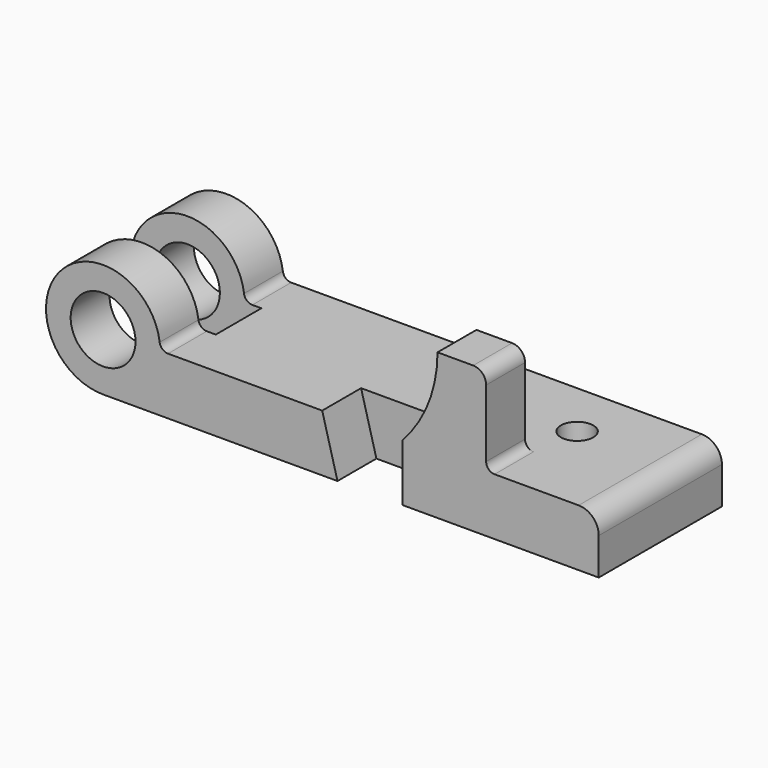
from build123d import *

# Parameters (mm, degrees)
F0_R     = 12.7
F1_DEPTH = 30.1625
F2_W     = 28.956
F2_H     = 22.3266
F2_R     = 6.35
F3_DEPTH = 44.705
F5_DEPTH = 19.05
F7_DEPTH = 19.05
F8_R     = 3.302
F9_R     = 7.874
F10_R    = 3.302
F11_R    = 5.08


with BuildPart() as f1:
    # F0 (on Front) → F1 (new body, symmetric)
    with BuildSketch(Plane.XZ):
        with BuildLine():
            Line((-85.9282, -11.176), (108.2802, -11.176))
            Line((108.2802, -11.176), (108.2802, 11.176))
            Line((108.2802, 11.176), (-63.5762, 11.176))
            ThreePointArc((-63.5762, 11.176), (-101.733451, 26.981251), (-85.9282, -11.176))
        make_face()
        with Locations((-85.9282, 11.176)):
            Circle(F0_R, mode=Mode.SUBTRACT)
    extrude(amount=F1_DEPTH, both=True)

    # F2 (on face) → F3 (cut, through all)
    with BuildSketch(Plane(origin=(0, 0, -11.176), x_dir=(1, 0, 0), z_dir=(0, 0, -1))):
        with Locations((-100.4062, 0)):
            Rectangle(F2_W, F2_H)
        with Locations((69.4182, -7.8105)):
            Circle(F2_R)
        with Locations((-71.4502, 0)):
            Rectangle(F2_W, F2_H)
    extrude(amount=-F3_DEPTH, mode=Mode.SUBTRACT)

    # F4 (on face) → F5 (cut)
    with BuildSketch(Plane.XZ.offset(30.1625)):
        Polygon((31.3182, -11.176), (31.3182, 11.176), (-0.0762, 11.176), (5.9182, -11.176), align=None)
    extrude(amount=-F5_DEPTH, mode=Mode.SUBTRACT)

    # F6 (on face) → F7 (join)
    with BuildSketch(Plane.XZ.offset(30.1625)):
        with BuildLine():
            Line((31.3182, 9.144), (45.1104, 9.144))
            Line((45.1104, 9.144), (64.1604, 9.144))
            Line((64.1604, 9.144), (64.1604, 45.974))
            Line((64.1604, 45.974), (45.1104, 45.974))
            ThreePointArc((45.1104, 45.974), (41.536215, 27.258358), (31.3182, 11.176))
            Line((31.3182, 11.176), (31.3182, 9.144))
        make_face()
        with BuildLine():
            Line((31.3182, 9.144), (45.1104, 9.144))
            Line((45.1104, 9.144), (64.1604, 9.144))
            Line((64.1604, 9.144), (64.1604, 45.974))
            Line((64.1604, 45.974), (45.1104, 45.974))
            ThreePointArc((45.1104, 45.974), (41.536215, 27.258358), (31.3182, 11.176))
            Line((31.3182, 11.176), (31.3182, 9.144))
        make_face()
    extrude(amount=-F7_DEPTH)

    # F8
    f8_edges = [f1.edges().sort_by_distance(p)[0] for p in [
        (-63.5762, -20.6629, 11.176),
        (-63.5762, 20.6629, 11.176),
    ]]
    fillet(f8_edges, radius=F8_R)

    # F9
    f9_edges = [f1.edges().sort_by_distance(p)[0] for p in [
        (108.2802, 0, 11.176),
    ]]
    fillet(f9_edges, radius=F9_R)

    # F10
    f10_edges = [f1.edges().sort_by_distance(p)[0] for p in [
        (64.1604, -20.6375, 11.176),
    ]]
    fillet(f10_edges, radius=F10_R)

    # F11
    f11_edges = [f1.edges().sort_by_distance(p)[0] for p in [
        (64.1604, -20.6375, 45.974),
    ]]
    fillet(f11_edges, radius=F11_R)


solid = f1.part
